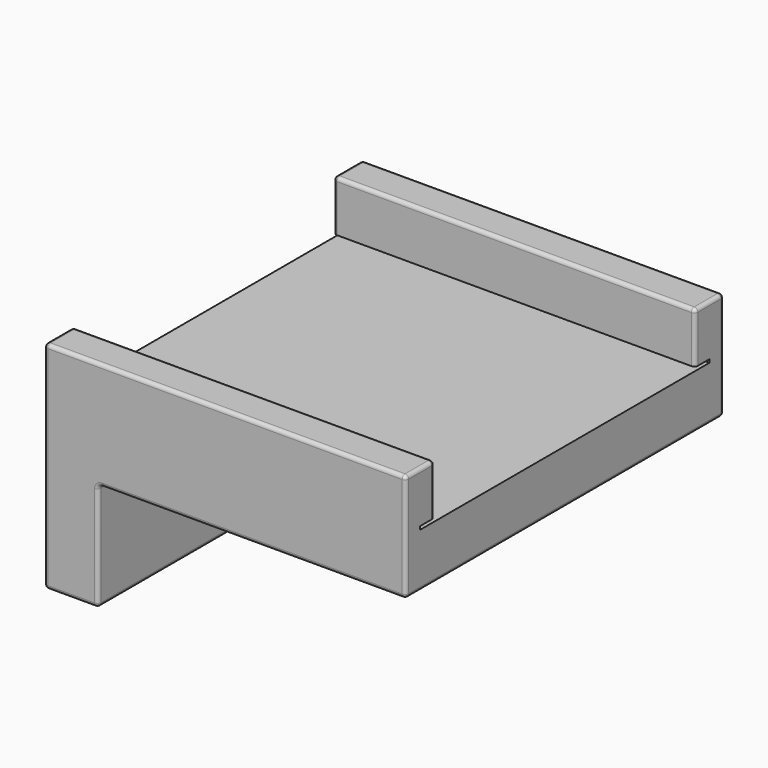
from build123d import *

# Parameters (mm, degrees)
EXTRUDE001_DEPTH = 50.25
SKETCH_W         = 100.5
SKETCH_H         = 100.5
EXTRUDE_DEPTH    = 15
SKETCH002_W      = 15
SKETCH002_H      = 30
EXTRUDE002_DEPTH = 55.25
FILLET_R         = 1


with BuildPart() as extrude001:
    # Sketch001 (on Sketch) → Extrude001 (new body, symmetric)
    with BuildSketch(Plane.YZ):
        Polygon((-55.25, 0), (-55.25, 30), (-45.25, 30), (-45.25, 15.9), (-50.25, 15.9), (-50.25, 15), (-45.25, 15), (-45.25, 0), align=None)
        Polygon((55.25, 0), (55.25, 30), (45.25, 30), (45.25, 15.9), (50.25, 15.9), (50.25, 15), (45.25, 15), (45.25, 0), align=None)
    extrude(amount=EXTRUDE001_DEPTH, both=True)


with BuildPart() as fusion:
    # Sketch → Extrude (new body)
    with BuildSketch(Plane.XY):
        Rectangle(SKETCH_W, SKETCH_H)
    extrude(amount=EXTRUDE_DEPTH)

    # Fusion: union Extrude001
    add(extrude001.part)


with BuildPart() as fillet_body:
    # Sketch002 → Extrude002 (new body, symmetric)
    with BuildSketch(Plane.XZ):
        with Locations((-42.75, -15)):
            Rectangle(SKETCH002_W, SKETCH002_H)
    extrude(amount=EXTRUDE002_DEPTH, both=True)

    # Fusion001: union Fusion
    add(fusion.part)

    # Fillet
    fillet_edges = [fillet_body.edges().sort_by_distance(p)[0] for p in [
        (-35.25, 0, 0),
        (-35.25, 0, -30),
        (-35.25, 55.25, -15),
        (-35.25, -55.25, -15),
        (-50.25, 0, -30),
        (-42.75, 55.25, -30),
        (-42.75, -55.25, -30),
        (50.25, 0, 0),
        (7.5, -55.25, 0),
        (7.5, 55.25, 0),
        (-50.25, 55.25, 0),
        (0, 55.25, 30),
        (50.25, 55.25, 15),
        (0, 45.25, 30),
        (50.25, 45.25, 22.95),
        (-50.25, 45.25, 22.95),
        (50.25, 50.25, 30),
        (-50.25, 50.25, 30),
        (50.25, -55.25, 15),
        (0, -55.25, 30),
        (-50.25, -55.25, 0),
        (0, -45.25, 30),
        (50.25, -50.25, 30),
        (-50.25, -50.25, 30),
        (50.25, -45.25, 22.95),
        (-50.25, -45.25, 22.95),
    ]]
    fillet(fillet_edges, radius=FILLET_R)


solid = fillet_body.part
